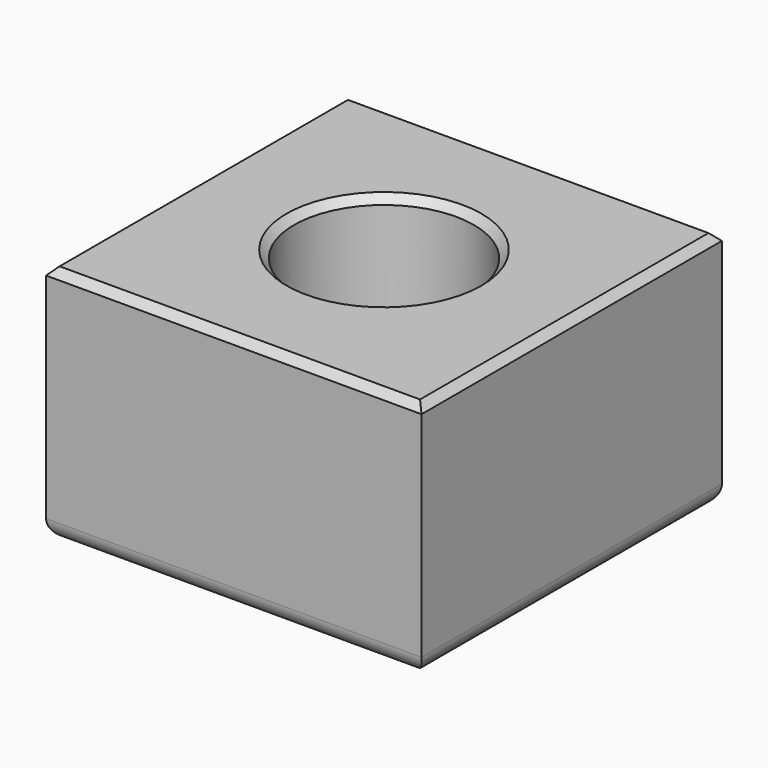
from build123d import *

# Parameters (mm, degrees)
F0_W     = 254
F0_H     = 254
F1_DEPTH = 162.56
F2_R     = 60.882574
F3_DEPTH = 289.56
F4_SIZE  = 5.08
F5_R     = 12.7
F6_R     = 12.7


with BuildPart() as f1:
    # F0 (on Top) → F1 (new body)
    with BuildSketch(Plane.XY):
        Rectangle(F0_W, F0_H)
    extrude(amount=F1_DEPTH)

    # F2 (on face) → F3 (cut)
    with BuildSketch(Plane.XY.offset(162.56)):
        Circle(F2_R)
    extrude(amount=-F3_DEPTH, mode=Mode.SUBTRACT)

    # F4
    f4_edges = [f1.edges().sort_by_distance(p)[0] for p in [
        (127, 0, 162.56),
        (0, -127, 162.56),
        (-127, 0, 162.56),
        (0, 127, 162.56),
        (-60.882574, 0, 162.56),
    ]]
    chamfer(f4_edges, length=F4_SIZE)

    # F5
    f5_edges = [f1.edges().sort_by_distance(p)[0] for p in [
        (-127, 0, 0),
        (0, 127, 0),
        (127, 0, 0),
        (0, -127, 0),
    ]]
    fillet(f5_edges, radius=F5_R)

    # F6
    f6_edges = [f1.edges().sort_by_distance(p)[0] for p in [
        (-60.882574, 0, 0),
    ]]
    fillet(f6_edges, radius=F6_R)


solid = f1.part
